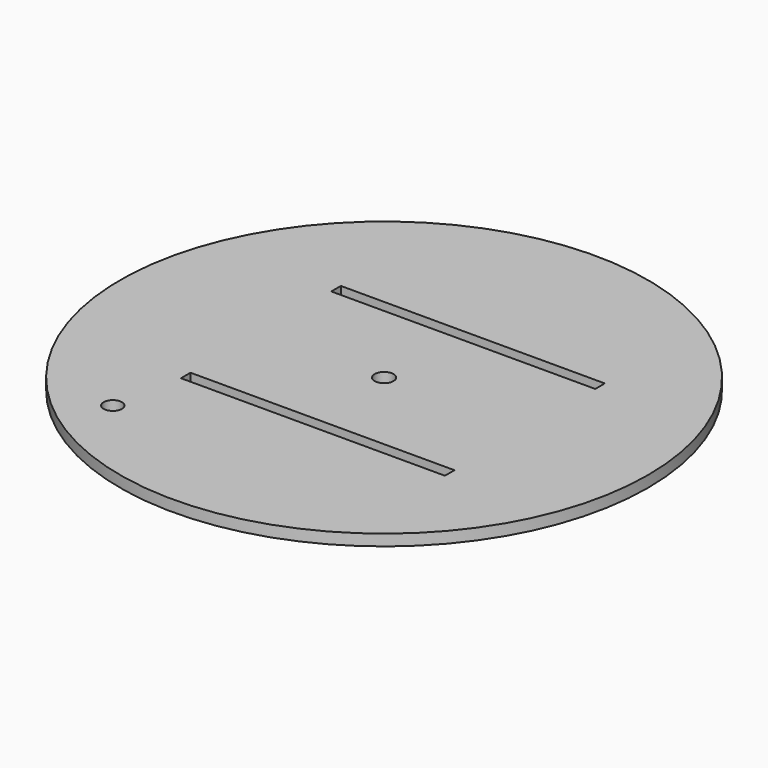
from build123d import *

# Parameters (mm, degrees)
F0_R     = 75
F0_R_2   = 2.6
F0_W     = 75
F0_H     = 3.4
F0_R_3   = 2.7
F1_DEPTH = 3.2


with BuildPart() as f1:
    # F0 (on Top) → F1 (new body)
    with BuildSketch(Plane.XY):
        Circle(F0_R)
        with Locations((-38.605813, -48.087154)):
            Circle(F0_R_2, mode=Mode.SUBTRACT)
        with Locations((2.5, -26.7)):
            Rectangle(F0_W, F0_H, mode=Mode.SUBTRACT)
        Circle(F0_R_3, mode=Mode.SUBTRACT)
        with Locations((2.5, 26.7)):
            Rectangle(F0_W, F0_H, mode=Mode.SUBTRACT)
    extrude(amount=F1_DEPTH)


solid = f1.part
